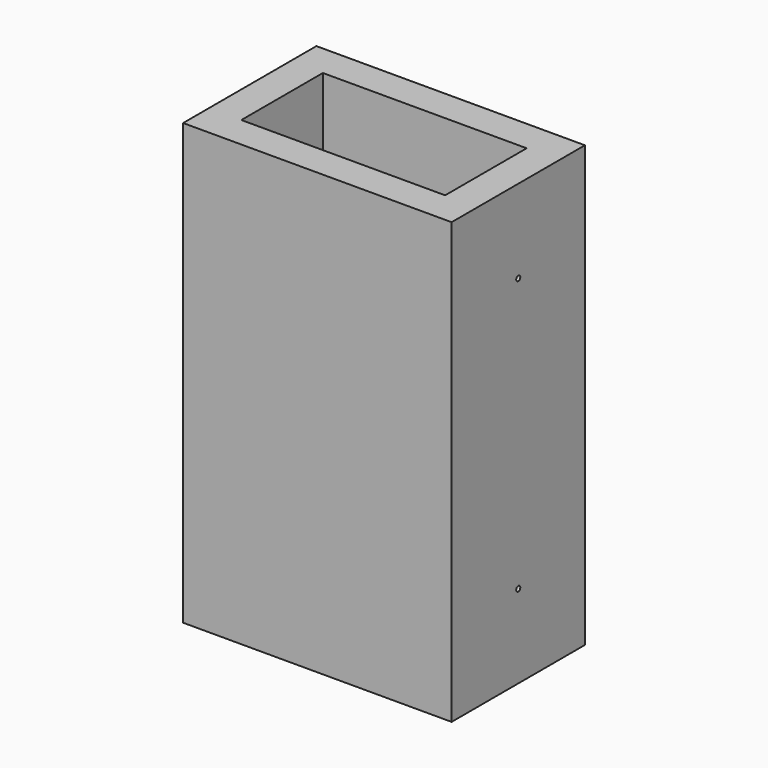
from build123d import *

# Parameters (mm, degrees)
F0_W     = 52.7
F0_H     = 32.7
F1_DEPTH = 86.35
F2_T     = -6.35
F4_D     = 1
F5_D     = 1


with BuildPart() as f1:
    # F0 (on Top) → F1 (new body)
    with BuildSketch(Plane.XY):
        Rectangle(F0_W, F0_H)
    extrude(amount=F1_DEPTH)

    # F2
    f2_openings = [f1.faces().sort_by_distance(p)[0] for p in [
        (0, 0, 86.35),
    ]]
    offset(amount=F2_T, openings=f2_openings)

    # F4 (through all)
    with Locations(Plane(origin=(-26.35, 0, 0), x_dir=(0, -1, 0), z_dir=(-1, 0, 0))):
        with Locations((0, 70)):
            Hole(F4_D / 2)

    # F5 (through all)
    with Locations(Plane(origin=(-26.35, 0, 0), x_dir=(0, -1, 0), z_dir=(-1, 0, 0))):
        with Locations((0, 16.35)):
            Hole(F5_D / 2)


solid = f1.part
